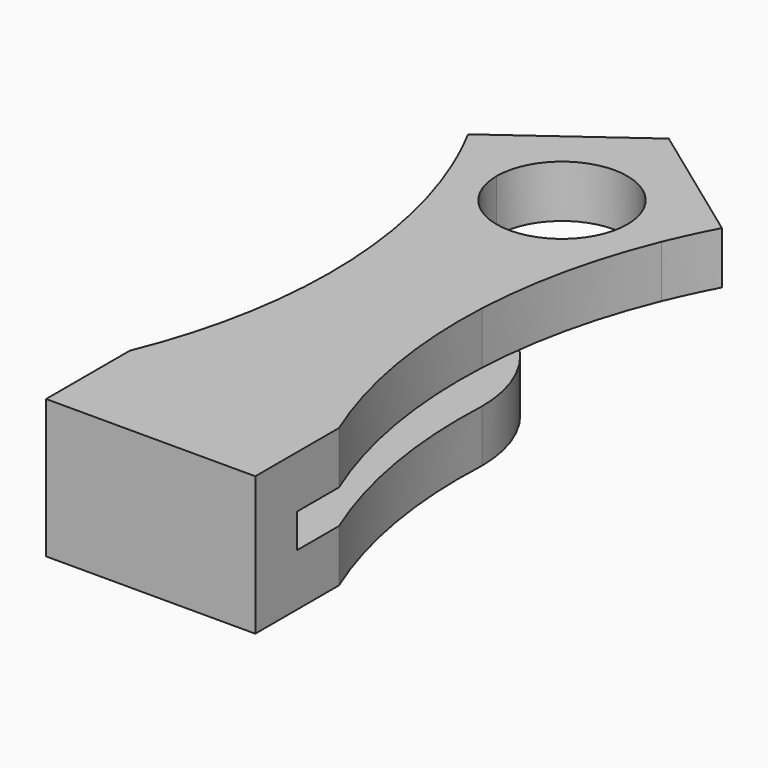
from build123d import *

# Parameters (mm, degrees)
F0_W     = 8
F0_H     = 2
F1_DEPTH = 2
F2_DEPTH = 1.3
F3_START = -1.3
F3_DEPTH = 2


with BuildPart() as f1:
    # F0 (on Top) → F1 (new body)
    with BuildSketch(Plane.XY):
        with BuildLine():
            ThreePointArc((-2.5, 19.66), (0, 22.16), (2.5, 19.66))
            Line((2.5, 19.66), (4, 19.66))
            Line((4, 19.66), (4, 19.422723854))
            ThreePointArc((4, 19.422723854), (4.4045880471, 20.3405322852), (4.8541019662, 21.2371933364))
            Line((4.8541019662, 21.2371933364), (0, 24.7639048501))
            Line((0, 24.7639048501), (-4.8541019662, 21.2371933364))
            ThreePointArc((-4.8541019662, 21.2371933364), (-4.4045880471, 20.3405322852), (-4, 19.422723854))
            Line((-4, 19.422723854), (-4, 19.66))
            Line((-4, 19.66), (-2.5, 19.66))
        make_face()
        with BuildLine():
            ThreePointArc((2.5, 12.7140819367), (1.8321382954, 15.2643852238), (0, 17.16))
            ThreePointArc((0, 17.16), (-1.8321382954, 15.2643852238), (-2.5, 12.7140819367))
            ThreePointArc((-2.5, 12.7140819367), (-2.7688401868, 8.2742164407), (-4, 4))
            Line((-4, 4), (-4, 2))
            Line((-4, 2), (4, 2))
            Line((4, 2), (4, 4))
            ThreePointArc((4, 4), (2.7688401868, 8.2742164407), (2.5, 12.7140819367))
        make_face()
        with Locations((0, 1)):
            Rectangle(F0_W, F0_H)
        with BuildLine():
            ThreePointArc((0, 17.16), (-1.767766953, 17.892233047), (-2.5, 19.66))
            Line((-2.5, 19.66), (-2.5, 12.7140819367))
            ThreePointArc((-2.5, 12.7140819367), (-1.8321382954, 15.2643852238), (0, 17.16))
        make_face()
        with BuildLine():
            Line((2.5, 12.7140819367), (2.5, 19.66))
            ThreePointArc((2.5, 19.66), (1.767766953, 17.892233047), (0, 17.16))
            ThreePointArc((0, 17.16), (1.8321382954, 15.2643852238), (2.5, 12.7140819367))
        make_face()
        with BuildLine():
            ThreePointArc((0, 17.16), (-1.767766953, 17.892233047), (-2.5, 19.66))
            Line((-2.5, 19.66), (-2.5, 12.7140819367))
            ThreePointArc((-2.5, 12.7140819367), (-1.8321382954, 15.2643852238), (0, 17.16))
        make_face()
        with BuildLine():
            Line((2.5, 12.7140819367), (2.5, 19.66))
            ThreePointArc((2.5, 19.66), (1.767766953, 17.892233047), (0, 17.16))
            ThreePointArc((0, 17.16), (1.8321382954, 15.2643852238), (2.5, 12.7140819367))
        make_face()
        with BuildLine():
            Line((-2.5, 12.7140819367), (-2.5, 19.66))
            Line((-2.5, 19.66), (-4, 19.66))
            Line((-4, 19.66), (-4, 19.422723854))
            ThreePointArc((-4, 19.422723854), (-2.9634091525, 16.1324823732), (-2.5, 12.7140819367))
        make_face()
        with BuildLine():
            Line((4, 19.66), (2.5, 19.66))
            Line((2.5, 19.66), (2.5, 12.7140819367))
            ThreePointArc((2.5, 12.7140819367), (2.9634091525, 16.1324823732), (4, 19.422723854))
            Line((4, 19.422723854), (4, 19.66))
        make_face()
    extrude(amount=F1_DEPTH)

    # F0 (on Top) → F2 (join)
    with BuildSketch(Plane.XY):
        with Locations((0, 1)):
            Rectangle(F0_W, F0_H)
    extrude(amount=-F2_DEPTH)

    # F0 (on Top) → F3 (join)
    with BuildSketch(Plane.XY.offset(F3_START)):
        with BuildLine():
            ThreePointArc((2.5, 12.7140819367), (1.8321382954, 15.2643852238), (0, 17.16))
            ThreePointArc((0, 17.16), (-1.8321382954, 15.2643852238), (-2.5, 12.7140819367))
            ThreePointArc((-2.5, 12.7140819367), (-2.7688401868, 8.2742164407), (-4, 4))
            Line((-4, 4), (-4, 2))
            Line((-4, 2), (4, 2))
            Line((4, 2), (4, 4))
            ThreePointArc((4, 4), (2.7688401868, 8.2742164407), (2.5, 12.7140819367))
        make_face()
        with Locations((0, 1)):
            Rectangle(F0_W, F0_H)
    extrude(amount=-F3_DEPTH)


solid = f1.part
